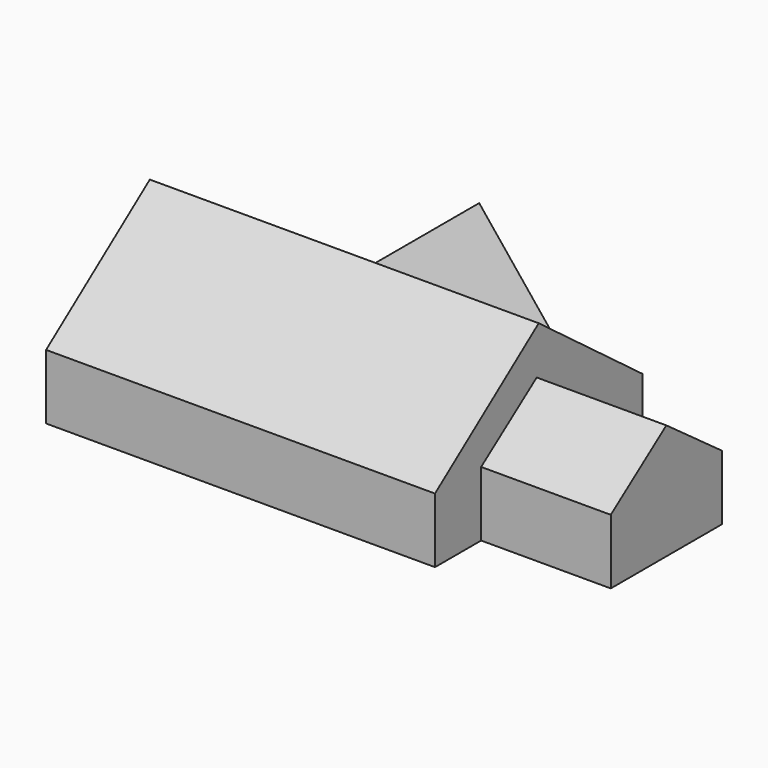
from build123d import *

# Parameters (mm, degrees)
F0_W     = 101.6
F0_H     = 25.4
F1_DEPTH = 152.4
F2_W     = 54.442895
F2_H     = 25.4
F3_DEPTH = 50.8
F5_DEPTH = 50.8


with BuildPart() as f1:
    # F0 (on Right) → F1 (new body)
    with BuildSketch(Plane.YZ):
        with Locations((10.159998, 4.812631)):
            Rectangle(F0_W, F0_H)
        Polygon((10.159998, 55.612631), (-40.640002, 17.512631), (60.959998, 17.512631), align=None)
    extrude(amount=-F1_DEPTH)

    # F2 (on face) → F3 (join)
    with BuildSketch(Plane.YZ):
        Polygon((9.17408, 37.297897), (-18.047368, 17.512631), (36.395527, 17.512631), align=None)
        with Locations((9.17408, 4.812631)):
            Rectangle(F2_W, F2_H)
    extrude(amount=F3_DEPTH)

    # F4 (on face) → F5 (join)
    with BuildSketch(Plane(origin=(0, 60.959998, 0), x_dir=(-1, 0, 0), z_dir=(0, 1, 0))):
        Polygon((63.967891, 55.612631), (33.287369, 17.512631), (103.137369, 17.512631), align=None)
    extrude(amount=-F5_DEPTH)


solid = f1.part
